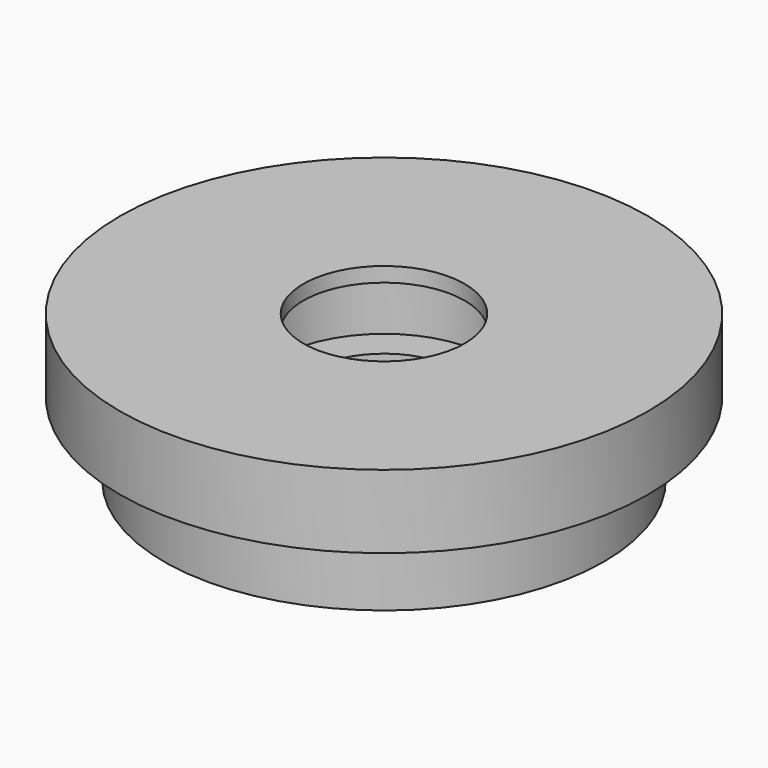
from build123d import *

# Parameters (mm, degrees)
F0_R     = 18
F1_DEPTH = 5
F2_R     = 15
F3_DEPTH = 5
F4_R     = 5
F5_DEPTH = 10
F6_R     = 5.5
F7_DEPTH = 5
F8_W     = 1.785261
F8_H     = 4
F11_W    = 2.5
F11_H    = 2


with BuildPart() as f1:
    # F0 (on Top) → F1 (new body)
    with BuildSketch(Plane.XY):
        Circle(F0_R)
    extrude(amount=F1_DEPTH)

    # F2 (on face) → F3 (join)
    with BuildSketch(Plane(origin=(0, 0, 0), x_dir=(1, 0, 0), z_dir=(0, 0, -1))):
        Circle(F2_R)
    extrude(amount=F3_DEPTH)

    # F4 (on face) → F5 (cut)
    with BuildSketch(Plane.XY.offset(5)):
        Circle(F4_R)
    extrude(amount=-F5_DEPTH, mode=Mode.SUBTRACT)

    # F6 (on face) → F7 (cut)
    with BuildSketch(Plane.XY.offset(5)):
        Circle(F6_R)
    extrude(amount=-F7_DEPTH, mode=Mode.SUBTRACT)

    # F8 (on Right) → F10 (revolve, cut)
    with BuildSketch(Plane.YZ):
        with Locations((-6.39263, 2)):
            Rectangle(F8_W, F8_H)
    revolve(axis=Axis((0, 0, 2.476329), (0, 0, 1)), mode=Mode.SUBTRACT)

    # F11 (on Right) → F12 (revolve, cut)
    with BuildSketch(Plane.YZ):
        with Locations((6.25, -2.5)):
            Rectangle(F11_W, F11_H)
    revolve(axis=Axis((0, 0, 2.476329), (0, 0, 1)), mode=Mode.SUBTRACT)


solid = f1.part
